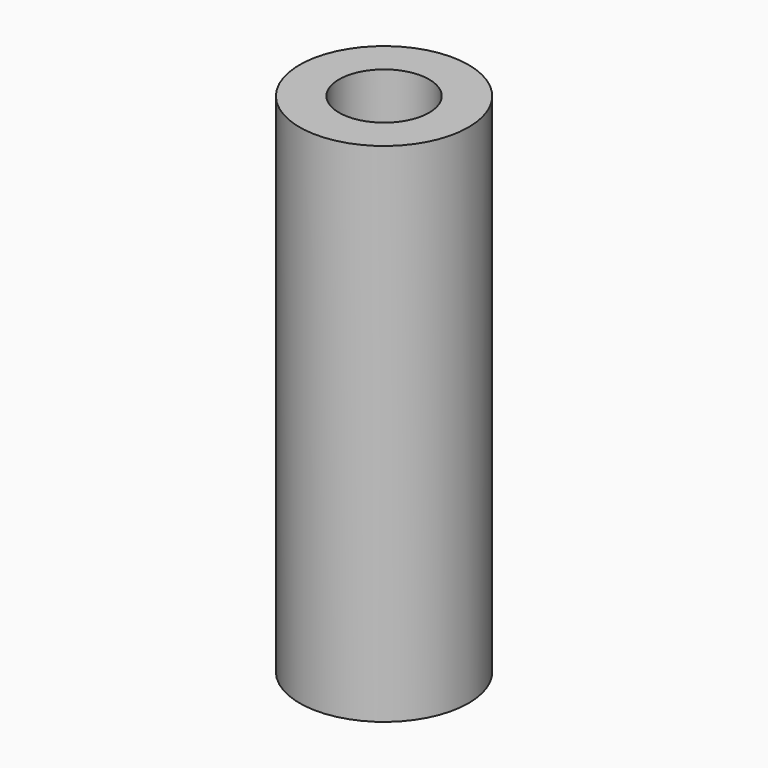
from build123d import *

# Parameters (mm, degrees)
SKETCH_R   = 7.5
SKETCH_R_2 = 4
PAD_DEPTH  = 45


with BuildPart() as part:
    # Sketch → Pad (new body)
    with BuildSketch(Plane.XY):
        Circle(SKETCH_R)
        Circle(SKETCH_R_2, mode=Mode.SUBTRACT)
    extrude(amount=PAD_DEPTH)


solid = part.part
